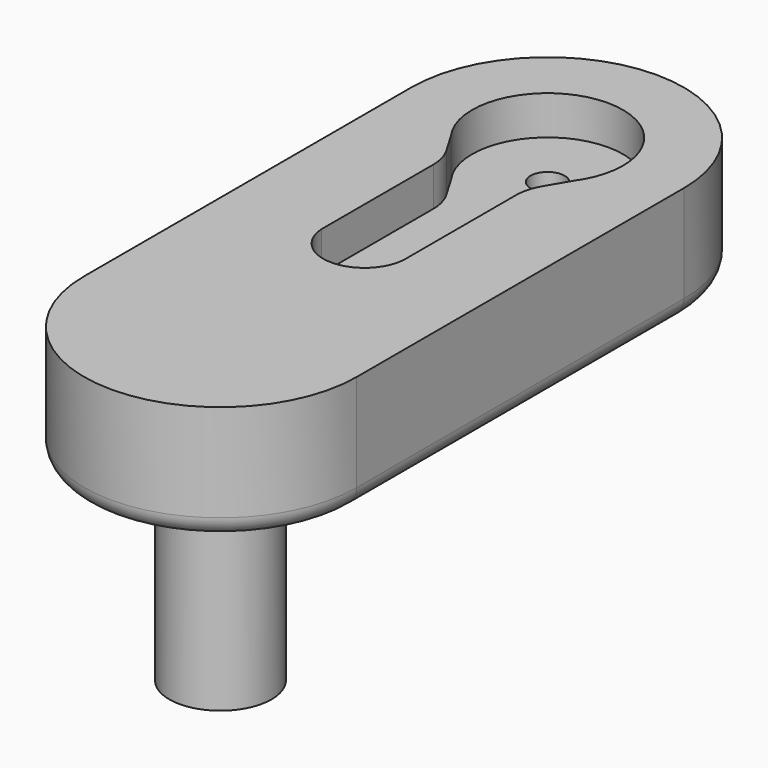
from build123d import *

# Parameters (mm, degrees)
PAD_DEPTH       = 12
POCKET_DEPTH    = 4
SKETCH002_R     = 5.25
PAD001_DEPTH    = 20
SKETCH003_R     = 1.75
POCKET001_DEPTH = 28.001
FILLET_R        = 3
FILLET001_R     = 2
FILLET002_R     = 5


with BuildPart() as part:
    # Sketch001 → Pad (new body)
    with BuildSketch(Plane.XY):
        with BuildLine():
            ThreePointArc((14, 0), (0, 14), (-14, 0))
            Line((-14, 0), (-14, -42))
            ThreePointArc((-14, -42), (0, -56), (14, -42))
            Line((14, -42), (14, 0))
        make_face()
    extrude(amount=PAD_DEPTH)

    # Sketch (on Face6 of Pad) → Pocket (cut)
    with BuildSketch(Plane.XY.offset(12)):
        with BuildLine():
            ThreePointArc((6.309715, -4.5), (0, 7.75), (-6.309715, -4.5))
            Line((-6.309715, -4.5), (-4.245292, -8))
            Line((-4.245292, -8), (-4.245292, -23.7))
            ThreePointArc((-4.245292, -23.7), (0, -27.75), (4.245292, -23.7))
            Line((4.245292, -8), (4.245292, -23.7))
            Line((6.309715, -4.5), (4.245292, -8))
        make_face()
    extrude(amount=-POCKET_DEPTH, mode=Mode.SUBTRACT)

    # Sketch002 (on Face4 of Pocket) → Pad001 (join)
    with BuildSketch(Plane(origin=(0, 0, 0), x_dir=(1, 0, 0), z_dir=(0, 0, -1))):
        with Locations((0, 42)):
            Circle(SKETCH002_R)
    extrude(amount=PAD001_DEPTH)

    # Sketch003 (on Face15 of Pad001) → Pocket001 (cut, through all)
    with BuildSketch(Plane.XY.offset(8)):
        Circle(SKETCH003_R)
        with Locations((0, -23.5)):
            Circle(SKETCH003_R)
    extrude(amount=-POCKET001_DEPTH, mode=Mode.SUBTRACT)

    # Fillet
    fillet_edges = [part.edges().sort_by_distance(p)[0] for p in [
        (-5.25, -42, 0),
    ]]
    fillet(fillet_edges, radius=FILLET_R)

    # Fillet001
    fillet001_edges = [part.edges().sort_by_distance(p)[0] for p in [
        (-14, -21, 0),
        (0, 14, 0),
        (14, -21, 0),
        (0, -56, 0),
    ]]
    fillet(fillet001_edges, radius=FILLET001_R)

    # Fillet002
    fillet002_edges = [part.edges().sort_by_distance(p)[0] for p in [
        (-4.245292, -8, 10),
        (4.245292, -8, 10),
    ]]
    fillet(fillet002_edges, radius=FILLET002_R)


solid = part.part
